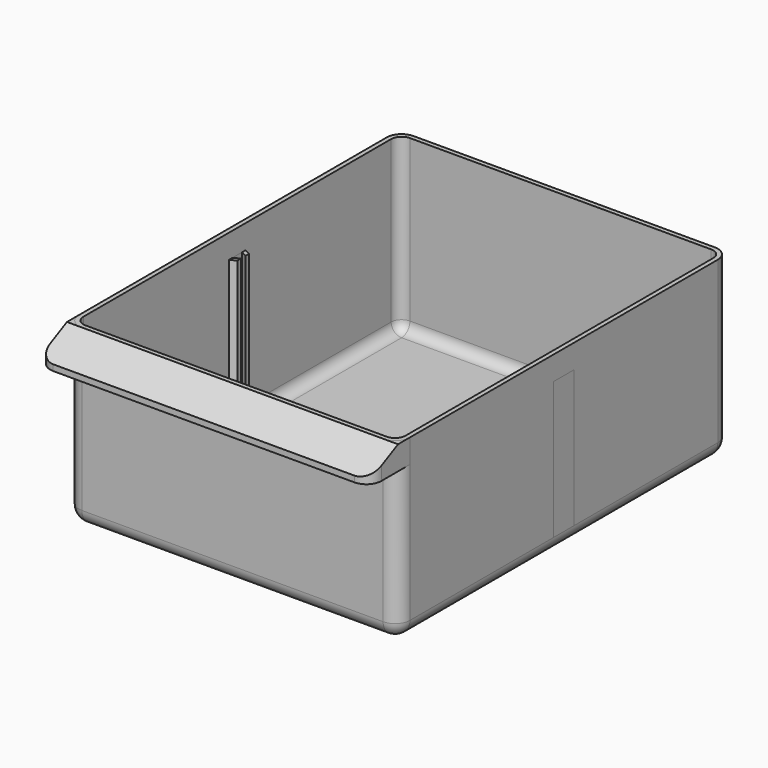
from build123d import *

# Parameters (mm, degrees)
PAD_DEPTH           = 59
FILLET_R            = 5
THICKNESS_T         = -1.5
SKETCH009_R         = 1.5
HOLE_DEPTH          = 25
HOLE_TIPS_R         = 1.5
PAD001_DEPTH        = 8
POCKET_DEPTH        = 55.5
THICKNESS001_T      = -1.5
POCKET001_DEPTH     = 8
REVOLUTION_ANGLE    = -180
REVOLUTION001_ANGLE = -180
PAD002_DEPTH        = 46
PAD003_DEPTH        = 46


with BuildPart() as binbody:
    # Sketch004 → Pad (new body)
    with BuildSketch(Plane.XY):
        with BuildLine():
            Line((-50.5, 139), (50.5, 139))
            ThreePointArc((55.5, 134), (54.0355339059, 137.5355339059), (50.5, 139))
            Line((55.5, 134), (55.5, 5))
            ThreePointArc((50.5, 0), (54.0355339059, 1.4644660941), (55.5, 5))
            Line((50.5, 0), (-50.5, 0))
            ThreePointArc((-55.5, 5), (-54.0355339059, 1.4644660941), (-50.5, 0))
            Line((-55.5, 5), (-55.5, 134))
            ThreePointArc((-50.5, 139), (-54.0355339059, 137.5355339059), (-55.5, 134))
        make_face()
    extrude(amount=PAD_DEPTH)

    # Fillet
    fillet_edges = [binbody.edges().sort_by_distance(p)[0] for p in [
        (0, 0, 0),
        (54.035534, 1.464466, 0),
        (55.5, 69.5, 0),
        (54.035534, 137.535534, 0),
        (0, 139, 0),
        (-54.035534, 137.535534, 0),
        (-55.5, 69.5, 0),
        (-54.035534, 1.464466, 0),
    ]]
    fillet(fillet_edges, radius=FILLET_R)

    # Thickness
    thickness_openings = [binbody.faces().sort_by_distance(p)[0] for p in [
        (0, 69.5, 59),
    ]]
    offset(amount=THICKNESS_T, openings=thickness_openings)

    # Sketch009 → Hole (cut)
    with BuildSketch(Plane.XY):
        with Locations((0, 127)):
            Circle(SKETCH009_R)
    extrude(amount=HOLE_DEPTH, mode=Mode.SUBTRACT)

    # Hole tips → Hole tip 1 section 0
    with BuildSketch(Plane.XY.offset(25), mode=Mode.PRIVATE) as hole_tip_1_s0:
        with Locations((0, 127)):
            Circle(HOLE_TIPS_R)
    loft([hole_tip_1_s0.sketch, Vertex(0, 127, 25.9012909285)], mode=Mode.SUBTRACT)


with BuildPart() as handlebody:
    # Sketch005 → Pad001 (new body)
    with BuildSketch(Plane.XY):
        with BuildLine():
            Line((-55.5, -7), (-55.5, 5))
            Line((-55.5, 5), (55.5, 5))
            Line((55.5, 5), (55.5, -7))
            ThreePointArc((50.5, -12), (54.0355339059, -10.5355339059), (55.5, -7))
            Line((50.5, -12), (-50.5, -12))
            ThreePointArc((-55.5, -7), (-54.0355339059, -10.5355339059), (-50.5, -12))
        make_face()
    extrude(amount=PAD001_DEPTH)

    # Sketch006 → Pocket (cut, symmetric)
    with BuildSketch(Plane.YZ):
        Polygon((0, 10), (-14, 10), (-14, -2), (0, -2), (0, 0), (-12, 0), (-12, 2), (0, 8), align=None)
    extrude(amount=POCKET_DEPTH, both=True, mode=Mode.SUBTRACT)

    # Thickness001
    thickness001_openings = [handlebody.faces().sort_by_distance(p)[0] for p in [
        (0, -3.457777, 0),
    ]]
    offset(amount=THICKNESS001_T, openings=thickness001_openings)

    # Sketch007 → Pocket001 (cut)
    with BuildSketch(Plane.XY):
        with BuildLine():
            Line((-55.5, 10), (55.5, 10))
            Line((55.5, 10), (55.5, 5))
            ThreePointArc((50.5, 0), (54.0355339059, 1.4644660941), (55.5, 5))
            Line((50.5, 0), (-50.5, 0))
            ThreePointArc((-55.5, 5), (-54.0355339059, 1.4644660941), (-50.5, 0))
            Line((-55.5, 5), (-55.5, 10))
        make_face()
    extrude(amount=POCKET001_DEPTH, mode=Mode.SUBTRACT)


with BuildPart() as handlebody_1:
    # Body001 placement: moved
    add(handlebody.part.moved(Location((0, 0, 51))))


with BuildPart() as railleft:
    # Clone2D005 → Revolution (revolve)
    with BuildSketch(Plane.XY):
        with BuildLine():
            Line((0, 132.5), (0, 6.5))
            ThreePointArc((0, 6.5), (-0.7071067812, 6.7928932188), (-1, 7.5))
            Line((-1, 7.5), (-1, 131.5))
            ThreePointArc((-1, 131.5), (-0.7071067812, 132.2071067812), (0, 132.5))
        make_face()
    revolve(axis=Axis((0, 0, 0), (0, 1, 0)), revolution_arc=REVOLUTION_ANGLE)


with BuildPart() as railleft_1:
    # Body002 placement: moved
    add(railleft.part.moved(Location((-46.5, 0, 0))))


with BuildPart() as railright:
    # Clone2D006 → Revolution001 (revolve)
    with BuildSketch(Plane.XY):
        with BuildLine():
            Line((0, 132.5), (0, 6.5))
            ThreePointArc((0, 6.5), (-0.7071067812, 6.7928932188), (-1, 7.5))
            Line((-1, 7.5), (-1, 131.5))
            ThreePointArc((-1, 131.5), (-0.7071067812, 132.2071067812), (0, 132.5))
        make_face()
    revolve(axis=Axis((0, 0, 0), (0, 1, 0)), revolution_arc=REVOLUTION001_ANGLE)


with BuildPart() as railright_1:
    # Body003 placement: moved
    add(railright.part.moved(Location((46.5, 0, 0))))


with BuildPart() as dividerholderleft:
    # Sketch012 → Pad002 (new body)
    with BuildSketch(Plane.XY):
        Polygon((-55.5, 73.75), (-52, 72), (-52, 70.5), (-54, 71.5), (-54, 67.5), (-52, 68.5), (-52, 67), (-55.5, 65.25), align=None)
    extrude(amount=PAD002_DEPTH)


with BuildPart() as dividerholderleft_1:
    # Body005 placement: moved
    add(dividerholderleft.part.moved(Location((0, 0, 5))))


with BuildPart() as dividerholderright:
    # Sketch013 → Pad003 (new body)
    with BuildSketch(Plane.XY):
        Polygon((54, 71.5), (52, 70.5), (52, 72), (55.5, 73.75), (55.5, 65.25), (52, 67), (52, 68.5), (54, 67.5), align=None)
    extrude(amount=PAD003_DEPTH)


with BuildPart() as dividerholderright_1:
    # Body006 placement: moved
    add(dividerholderright.part.moved(Location((0, 0, 5))))


solid = Compound([binbody.part, handlebody_1.part, railleft_1.part, railright_1.part, dividerholderleft_1.part, dividerholderright_1.part])
